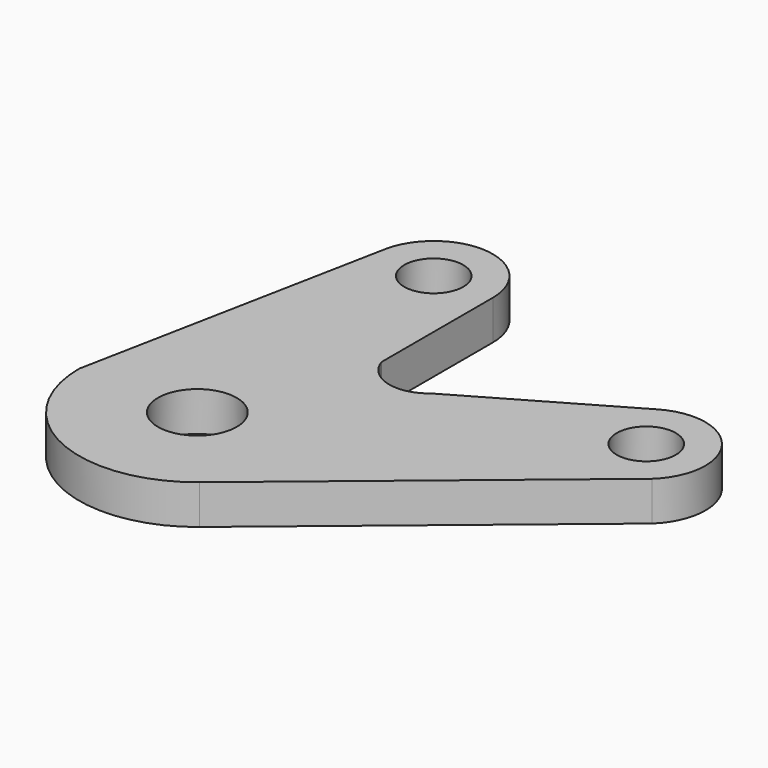
from build123d import *

# Parameters (mm, degrees)
F0_R     = 10
F0_R_2   = 7.5
F1_DEPTH = 10


with BuildPart() as f1:
    # F0 (on Top) → F1 (new body)
    with BuildSketch(Plane.XY):
        with BuildLine():
            Line((-14.630603, 78.308392), (-30, 0))
            ThreePointArc((-30, 0), (-12.818739, -27.123421), (19.04533, -23.179202))
            Line((19.04533, -23.179202), (88.160959, 34.019165))
            ThreePointArc((88.160959, 34.019165), (90.004732, 53.916132), (70.442286, 57.990381))
            Line((70.442286, 57.990381), (30.950381, 35.189719))
            ThreePointArc((30.950381, 35.189719), (21.790619, 33.189255), (15, 39.653819))
            Line((15, 39.653819), (15, 75))
            ThreePointArc((15, 75), (1.664475, 89.907365), (-14.630603, 78.308392))
        make_face()
        Circle(F0_R, mode=Mode.SUBTRACT)
        with Locations((0, 75)):
            Circle(F0_R_2, mode=Mode.SUBTRACT)
        with Locations((77.942286, 45)):
            Circle(F0_R_2, mode=Mode.SUBTRACT)
    extrude(amount=F1_DEPTH)


solid = f1.part
